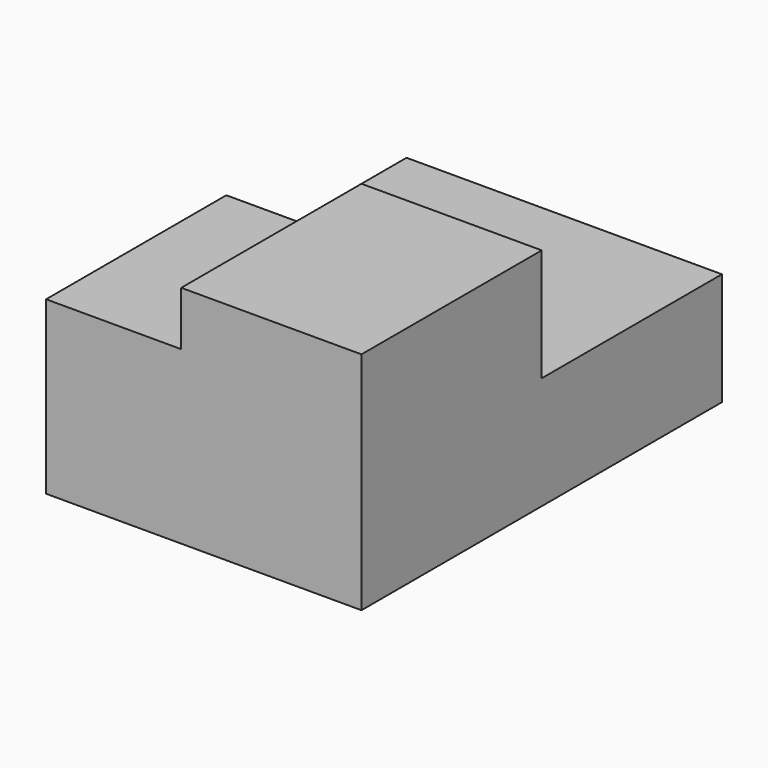
from build123d import *

# Parameters (mm, degrees)
F0_W     = 1778
F0_H     = 1270
F1_DEPTH = 2540
F2_W     = 1778
F2_H     = 635
F3_DEPTH = 1270
F4_W     = 762
F4_H     = 304.8
F5_DEPTH = 12700


with BuildPart() as f1:
    # F0 (on Front) → F1 (new body)
    with BuildSketch(Plane.XZ):
        with Locations((797.283465, 635)):
            Rectangle(F0_W, F0_H)
    extrude(amount=-F1_DEPTH)

    # F2 (on face) → F3 (cut)
    with BuildSketch(Plane(origin=(0, 2540, 0), x_dir=(-1, 0, 0), z_dir=(0, 1, 0))):
        with Locations((-797.283465, 952.5)):
            Rectangle(F2_W, F2_H)
    extrude(amount=-F3_DEPTH, mode=Mode.SUBTRACT)

    # F4 (on face) → F5 (cut)
    with BuildSketch(Plane(origin=(0, 1270, 0), x_dir=(-1, 0, 0), z_dir=(0, 1, 0))):
        with Locations((-289.283465, 1117.6)):
            Rectangle(F4_W, F4_H)
    extrude(amount=-F5_DEPTH, mode=Mode.SUBTRACT)


solid = f1.part
